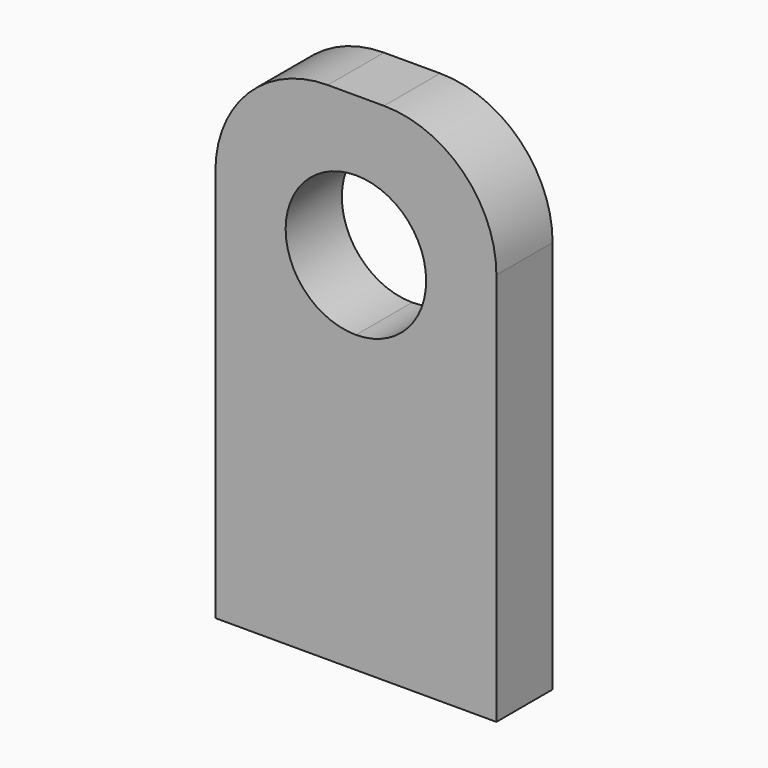
from build123d import *

# Parameters (mm, degrees)
F1_DEPTH = 3.175
F2_R     = 5.08
F3_R     = 5.08


with BuildPart() as f1:
    # F0 (on Front) → F1 (new body)
    with BuildSketch(Plane.XZ):
        with BuildLine():
            Line((-6.35, 0), (0, 0))
            Line((0, 0), (0, 22.86))
            Line((0, 22.86), (-6.35, 22.86))
            Line((-6.35, 22.86), (-6.35, 19.685))
            ThreePointArc((-6.35, 19.685), (-4.104936, 18.755064), (-3.175, 16.51))
            ThreePointArc((-3.175, 16.51), (-4.104936, 14.264936), (-6.35, 13.335))
            Line((-6.35, 13.335), (-6.35, 0))
        make_face()
        with BuildLine():
            Line((-12.7, 0), (-6.35, 0))
            Line((-6.35, 0), (-6.35, 13.335))
            ThreePointArc((-6.35, 13.335), (-9.525, 16.51), (-6.35, 19.685))
            Line((-6.35, 19.685), (-6.35, 22.86))
            Line((-6.35, 22.86), (-12.7, 22.86))
            Line((-12.7, 22.86), (-12.7, 0))
        make_face()
    extrude(amount=F1_DEPTH)

    # F2
    f2_edges = [f1.edges().sort_by_distance(p)[0] for p in [
        (0, -1.5875, 22.86),
    ]]
    fillet(f2_edges, radius=F2_R)

    # F3
    f3_edges = [f1.edges().sort_by_distance(p)[0] for p in [
        (-12.7, -1.5875, 22.86),
    ]]
    fillet(f3_edges, radius=F3_R)


solid = f1.part
